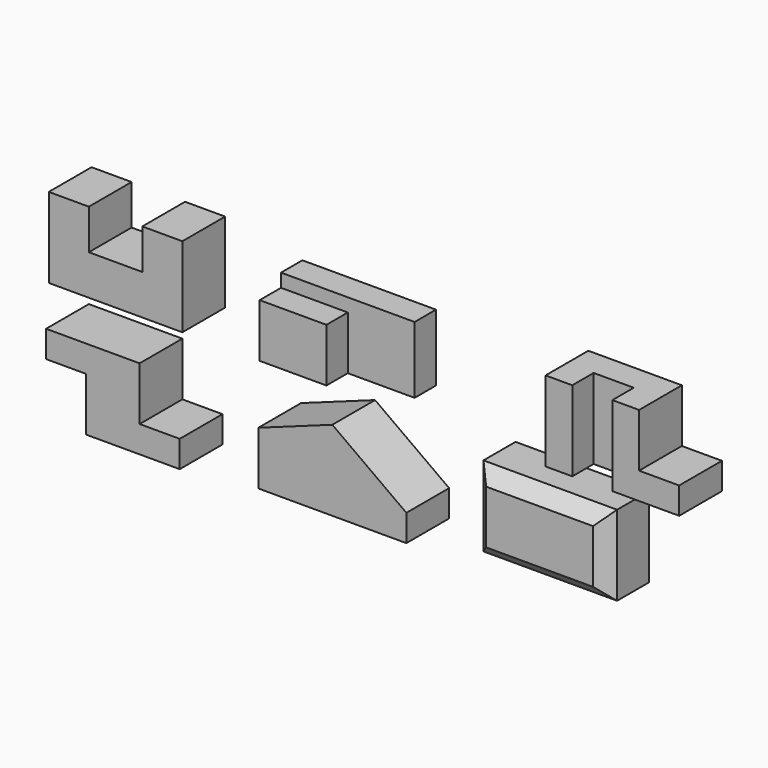
from build123d import *

# Parameters (mm, degrees)
F1_DEPTH  = 101.6
F4_DEPTH  = 50.8
F2_W      = 127
F2_H      = 101.6
F5_DEPTH  = 101.6
F3_W      = 50.8
F3_H      = 152.4
F6_DEPTH  = 101.6
F3_W_2    = 76.2
F7_DEPTH  = 25.4
F8_DEPTH  = 50.8
F9_DEPTH  = 76.2
F11_DEPTH = 101.6
F13_DEPTH = 101.6
F14_W     = 254
F14_H     = 152.4
F15_DEPTH = 101.6
F16_SIZE  = 25.4


with BuildPart() as f1:
    # F0 (on Front) → F1 (new body)
    with BuildSketch(Plane.XZ):
        Polygon((0, 152.4), (0, 0), (254, 0), (254, 152.4), (177.8, 152.4), (177.8, 76.2), (76.2, 76.2), (76.2, 152.4), align=None)
    extrude(amount=F1_DEPTH)


with BuildPart() as f4:
    # F2 (on Front) → F4 (new body)
    with BuildSketch(Plane.XZ):
        Polygon((654.862545, 127), (400.862545, 127), (400.862545, 101.6), (527.862545, 101.6), (527.862545, 0), (654.862545, 0), align=None)
    extrude(amount=F4_DEPTH)

    # F2 (on Front) → F5 (join)
    with BuildSketch(Plane.XZ):
        with Locations((464.362545, 50.8)):
            Rectangle(F2_W, F2_H)
    extrude(amount=F5_DEPTH)


with BuildPart() as f6:
    # F3 (on Front) → F6 (new body)
    with BuildSketch(Plane.XZ):
        with Locations((969.790904, 76.2)):
            Rectangle(F3_W, F3_H)
    extrude(amount=F6_DEPTH)

    # F3 (on Front) → F7 (join)
    with BuildSketch(Plane.XZ):
        with Locations((969.790904, 76.2)):
            Rectangle(F3_W, F3_H)
        with Locations((1033.290904, 76.2)):
            Rectangle(F3_W_2, F3_H)
        Polygon((1071.390904, 152.4), (1071.390904, 0), (1198.390904, 0), (1198.390904, 50.8), (1122.190904, 50.8), (1122.190904, 152.4), align=None)
    extrude(amount=F7_DEPTH)

    # F3 (on Front) → F8 (join)
    with BuildSketch(Plane.XZ):
        with Locations((1033.290904, 76.2)):
            Rectangle(F3_W_2, F3_H)
    extrude(amount=F8_DEPTH)

    # F7_face (on face) → F9 (join)
    with BuildSketch(Plane(origin=(1117.957571, -25.4, 59.266667), x_dir=(1, 0, 0), z_dir=(0, -1, 0))):
        Polygon((4.233333, 93.133333), (-46.566667, 93.133333), (-46.566667, -59.266667), (80.433333, -59.266667), (80.433333, -8.466667), (4.233333, -8.466667), align=None)
    extrude(amount=F9_DEPTH)


with BuildPart() as f11:
    # F10 (on Front) → F11 (new body)
    with BuildSketch(Plane.XZ):
        Polygon((172.698206, -78.335609), (-5.101794, -78.335609), (-5.101794, -129.135609), (71.098206, -129.135609), (71.098206, -230.735609), (248.898206, -230.735609), (248.898206, -179.935609), (172.698206, -179.935609), align=None)
    extrude(amount=F11_DEPTH)


with BuildPart() as f13:
    # F12 (on Front) → F13 (new body)
    with BuildSketch(Plane.XZ):
        Polygon((539.057255, -61.995472), (398.313224, -112.795472), (398.313224, -214.395472), (679.801285, -214.395472), (679.801285, -163.595472), align=None)
    extrude(amount=F13_DEPTH)


with BuildPart() as f15:
    # F14 (on Front) → F15 (new body)
    with BuildSketch(Plane.XZ):
        with Locations((933.066334, -121.310228)):
            Rectangle(F14_W, F14_H)
    extrude(amount=F15_DEPTH)

    # F16
    f16_edges = [f15.edges().sort_by_distance(p)[0] for p in [
        (933.066334, -101.6, -45.110228),
        (806.066334, -101.6, -121.310228),
        (933.066334, -101.6, -197.510228),
        (1060.066334, -101.6, -121.310228),
    ]]
    chamfer(f16_edges, length=F16_SIZE)


solid = Compound([f1.part, f4.part, f6.part, f11.part, f13.part, f15.part])
